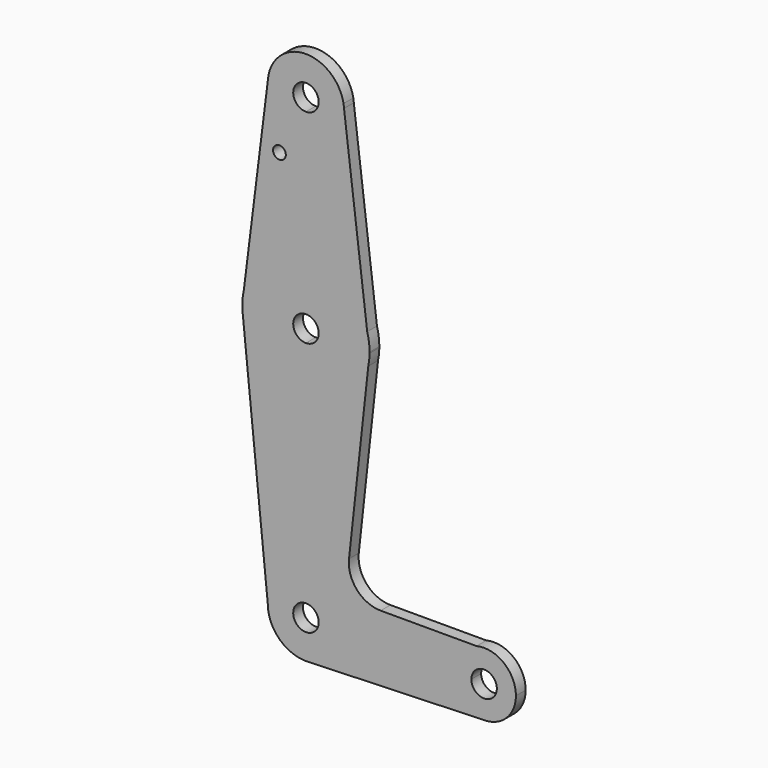
from build123d import *

# Parameters (mm, degrees)
F0_R     = 1.5875
F1_DEPTH = 3.048


with BuildPart() as f1:
    # F0 (on Front) → F1 (new body)
    with BuildSketch(Plane.XZ):
        with BuildLine():
            ThreePointArc((0, -3.175), (-3.175, 0), (0, 3.175))
            Line((0, 3.175), (0, 15.875))
            ThreePointArc((0, 15.875), (-9.923977451, 12.3907343024), (-15.4916998826, 3.4673995656))
            ThreePointArc((-15.4916998826, 3.4673995656), (-15.8467850833, 0.9460589429), (-15.7942028036, -1.5996195795))
            ThreePointArc((-15.7942028036, -1.5996195795), (-10.644756084, -11.777299899), (0, -15.875))
            Line((0, -15.875), (0, -3.175))
        make_face()
        with BuildLine():
            Line((0, 15.875), (0, 3.175))
            ThreePointArc((0, 3.175), (2.2450640303, 2.2450640303), (3.175, 0))
            ThreePointArc((3.175, 0), (2.2450640303, -2.2450640303), (0, -3.175))
            Line((0, -3.175), (0, -15.875))
            ThreePointArc((0, -15.875), (10.0353940532, -12.3006703556), (15.5517573716, -3.1872351113))
            Line((15.5517573716, -3.1872351113), (15.8729248923, -0.2566717021))
            ThreePointArc((15.8729248923, -0.2566717021), (15.8744812146, -0.1283400451), (15.875, 0))
            ThreePointArc((15.875, 0), (15.7268873686, 2.163478379), (15.2853132351, 4.2865865564))
            ThreePointArc((15.2853132351, 4.2865865564), (9.5907784725, 12.650398938), (0, 15.875))
        make_face()
        with BuildLine():
            ThreePointArc((-15.4916998826, 3.4673995656), (-9.923977451, 12.3907343024), (0, 15.875))
            Line((0, 15.875), (0, 41.275))
            ThreePointArc((0, 41.275), (-6.9575162998, 44.2947258369), (-9.5035277743, 51.4392064174))
            Line((-9.5035277743, 51.4392064174), (-15.4916998826, 3.4673995656))
        make_face()
        with Locations((-6.6107367165, 36.5252)):
            Circle(F0_R, mode=Mode.SUBTRACT)
        with BuildLine():
            Line((0, 41.275), (0, 15.875))
            ThreePointArc((0, 15.875), (9.5907784725, 12.650398938), (15.2853132351, 4.2865865564))
            Line((15.2853132351, 4.2865865564), (9.5032175256, 51.4438025021))
            ThreePointArc((9.5032175256, 51.4438025021), (9.5195528238, 51.1220854459), (9.525, 50.8))
            ThreePointArc((9.525, 50.8), (6.7351920908, 44.0648079092), (0, 41.275))
        make_face()
        with BuildLine():
            ThreePointArc((15.5517573716, -3.1872351113), (10.0353940532, -12.3006703556), (0, -15.875))
            Line((0, -15.875), (0, -53.975))
            ThreePointArc((0, -53.975), (6.7351920908, -56.7648079092), (9.525, -63.5))
            ThreePointArc((9.525, -63.5), (9.5249945679, -63.5101725433), (9.5249782718, -63.520345075))
            Line((9.5249782718, -63.520345075), (36.5124167085, -63.5779894541))
            ThreePointArc((36.5124167085, -63.5779894541), (38.2141202607, -58.6838364015), (42.5731427968, -55.8825060725))
            Line((42.5731427968, -55.8825060725), (18.6458374234, -55.8825060725))
            ThreePointArc((18.6458374234, -55.8825060725), (12.7259000672, -53.2389077854), (10.7429545489, -47.0662100545))
            Line((10.7429545489, -47.0662100545), (15.5517573716, -3.1872351113))
        make_face()
        with BuildLine():
            Line((0, -53.975), (0, -15.875))
            ThreePointArc((0, -15.875), (-10.644756084, -11.777299899), (-15.7942028036, -1.5996195795))
            Line((-15.7942028036, -1.5996195795), (-9.525, -63.5))
            ThreePointArc((-9.525, -63.5), (-6.7351920908, -56.7648079092), (0, -53.975))
        make_face()
        with BuildLine():
            ThreePointArc((-9.5035277743, 51.4392064174), (-6.9575162998, 44.2947258369), (0, 41.275))
            ThreePointArc((0, 41.275), (6.7351920908, 44.0648079092), (9.525, 50.8))
            ThreePointArc((9.525, 50.8), (9.5195528238, 51.1220854459), (9.5032175256, 51.4438025021))
            Line((9.5032175256, 51.4438025021), (9.3772461666, 52.4711909918))
            ThreePointArc((9.3772461666, 52.4711909918), (-0.5198411311, 60.3108038671), (-9.5035277743, 51.4392064174))
        make_face()
        with BuildLine():
            ThreePointArc((3.175, 50.8), (2.2450640303, 48.5549359697), (0, 47.625))
            ThreePointArc((0, 47.625), (-2.2450640303, 53.0450640303), (3.175, 50.8))
        make_face(mode=Mode.SUBTRACT)
        with BuildLine():
            Line((0, -60.325), (0, -53.975))
            ThreePointArc((0, -53.975), (-6.7351920908, -56.7648079092), (-9.525, -63.5))
            ThreePointArc((-9.525, -63.5), (-6.7351920908, -70.2351920908), (0, -73.025))
            Line((0, -73.025), (0.6370486166, -73.0036726617))
            ThreePointArc((0.6370486166, -73.0036726617), (6.9498254042, -70.0134899901), (9.5249782718, -63.520345075))
            Line((9.5249782718, -63.520345075), (3.1749927573, -63.5067816917))
            ThreePointArc((3.1749927573, -63.5067816917), (-2.2474604414, -65.7426650585), (0, -60.325))
        make_face()
        with BuildLine():
            Line((15.8729248923, -0.2566717021), (15.5517573716, -3.1872351113))
            ThreePointArc((15.5517573716, -3.1872351113), (15.7805169219, -1.7294249562), (15.8729248923, -0.2566717021))
        make_face()
        with BuildLine():
            Line((9.3772461666, 52.4711909918), (9.5032175256, 51.4438025021))
            ThreePointArc((9.5032175256, 51.4438025021), (9.454197961, 51.9592091766), (9.3772461666, 52.4711909918))
        make_face()
        with BuildLine():
            Line((36.5124167085, -63.5779894541), (9.5249782718, -63.520345075))
            ThreePointArc((9.5249782718, -63.520345075), (6.9498254042, -70.0134899901), (0.6370486166, -73.0036726617))
            Line((0.6370486166, -73.0036726617), (44.7154842344, -71.5279992434))
            ThreePointArc((44.7154842344, -71.5279992434), (38.9258455633, -69.2948335312), (36.5124167085, -63.5779894541))
        make_face()
        with BuildLine():
            Line((0.6370486166, -73.0036726617), (0, -73.025))
            ThreePointArc((0, -73.025), (0.3187027593, -73.0196666723), (0.6370486166, -73.0036726617))
        make_face()
        with BuildLine():
            ThreePointArc((42.5731427968, -55.8825060725), (38.2141202607, -58.6838364015), (36.5124167085, -63.5779894541))
            ThreePointArc((36.5124167085, -63.5779894541), (38.9258455633, -69.2948335312), (44.7154842344, -71.5279992434))
            ThreePointArc((44.7154842344, -71.5279992434), (50.1556847968, -69.1129061826), (52.3873986017, -63.5949436832))
            ThreePointArc((52.3873986017, -63.5949436832), (49.3543433739, -57.3539239167), (42.5731427968, -55.8825060725))
        make_face()
        with BuildLine():
            ThreePointArc((47.6248986017, -63.5949436832), (44.4465077539, -66.7699418725), (41.2749058444, -63.5881619916))
            ThreePointArc((41.2749058444, -63.5881619916), (44.4532894494, -60.4199454939), (47.6248986017, -63.5949436832))
        make_face(mode=Mode.SUBTRACT)
        with BuildLine():
            ThreePointArc((9.525, -63.5), (6.7351920908, -56.7648079092), (0, -53.975))
            Line((0, -53.975), (0, -60.325))
            ThreePointArc((0, -60.325), (2.2450640303, -61.2549359697), (3.175, -63.5))
            ThreePointArc((3.175, -63.5), (3.1749981893, -63.5033908478), (3.1749927573, -63.5067816917))
            Line((3.1749927573, -63.5067816917), (9.5249782718, -63.520345075))
            ThreePointArc((9.5249782718, -63.520345075), (9.5249945679, -63.5101725433), (9.525, -63.5))
        make_face()
    extrude(amount=F1_DEPTH)


solid = f1.part
